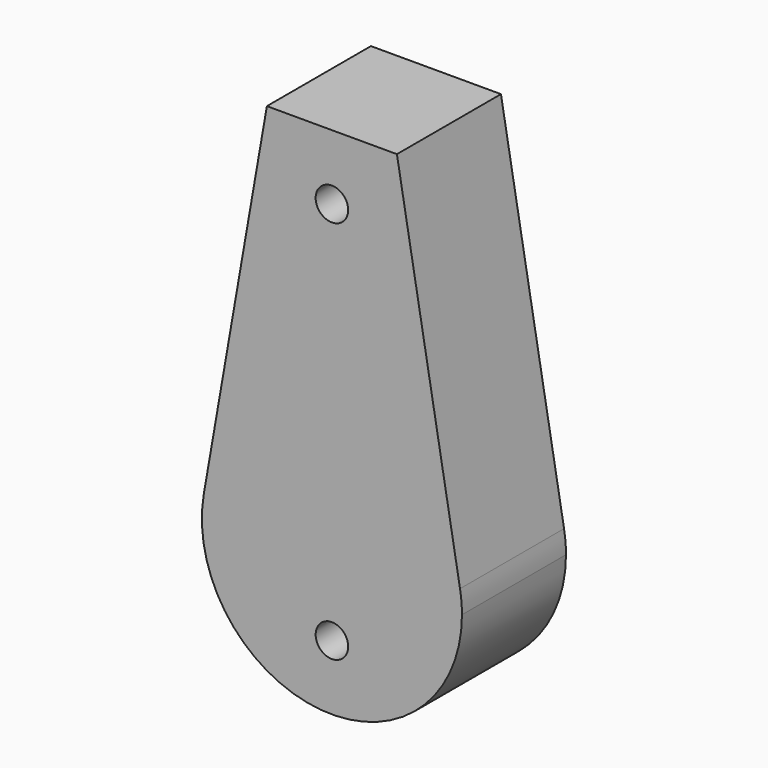
from build123d import *

# Parameters (mm, degrees)
F1_DEPTH = 25.4
F3_D     = 6.35


with BuildPart() as f1:
    # F0 (on Front) → F1 (new body)
    with BuildSketch(Plane.XZ):
        with BuildLine():
            Line((-12.7, 75.068495), (-25.022832, 4.360951))
            ThreePointArc((-25.022832, 4.360951), (-2.188615, -25.305532), (25.4, 0))
            ThreePointArc((25.4, 0), (25.305532, 2.188615), (25.022832, 4.360951))
            Line((25.022832, 4.360951), (12.7, 75.068495))
            Line((12.7, 75.068495), (-12.7, 75.068495))
        make_face()
    extrude(amount=-F1_DEPTH)

    # F3 (through all)
    with Locations(Plane.XZ):
        with Locations((0, -12.7), (0, 62.368495)):
            Hole(F3_D / 2)


solid = f1.part
